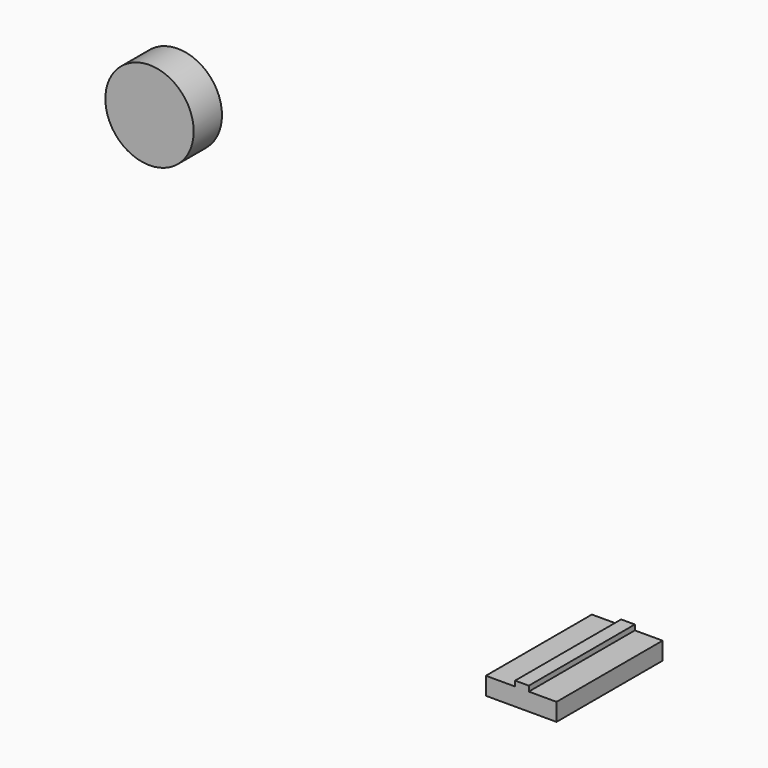
from build123d import *

# Parameters (mm, degrees)
F0_W     = 1.551184
F0_H     = 0.590979
F1_DEPTH = 15
F2_R     = 5
F3_DEPTH = 4


with BuildPart() as f1:
    # F0 (on Front) → F1 (new body)
    with BuildSketch(Plane.XZ):
        Polygon((-8, 0), (0, 0), (0, 2), (-3.138556, 2), (-4.68974, 2), (-8, 2), align=None)
        with Locations((-3.914148, 2.295489)):
            Rectangle(F0_W, F0_H)
    extrude(amount=F1_DEPTH)


with BuildPart() as f3:
    # F2 (on Front) → F3 (new body)
    with BuildSketch(Plane.XZ):
        with Locations((-54.857038, 38.13396)):
            Circle(F2_R)
    extrude(amount=F3_DEPTH)


solid = Compound([f1.part, f3.part])
